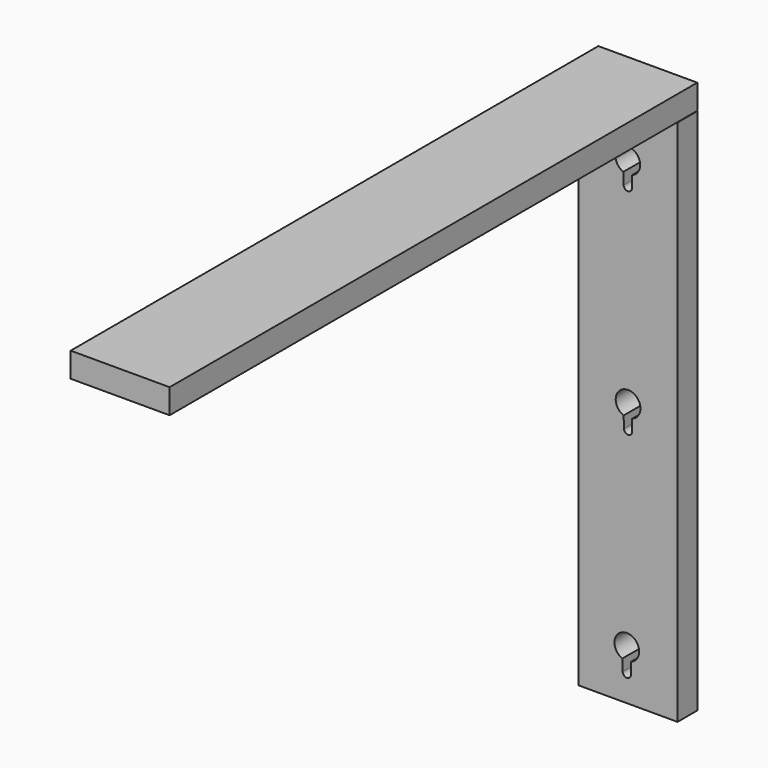
from build123d import *

# Parameters (mm, degrees)
F0_W     = 76.2
F0_H     = 406.4
F1_DEPTH = 19.05
F2_W     = 76.2
F2_H     = 19.05
F3_DEPTH = 508


with BuildPart() as f1:
    # F0 (on Front) → F1 (new body)
    with BuildSketch(Plane.XZ):
        Rectangle(F0_W, F0_H)
        with BuildLine():
            ThreePointArc((-4.385022, -173.993463), (-6.370754, -157.251075), (8.550541, -165.1))
            ThreePointArc((8.550541, -165.1), (6.802816, -170.599056), (2.201015, -174.080089))
            Line((2.201015, -174.080089), (2.201015, -182.821528))
            ThreePointArc((2.201015, -182.821528), (2.201419, -182.850763), (2.201554, -182.88))
            ThreePointArc((2.201554, -182.88), (-0.868396, -186.053262), (-4.141495, -183.089986))
            ThreePointArc((-4.141495, -183.089986), (-4.147309, -182.964969), (-4.148192, -182.83982))
            Line((-4.148192, -182.83982), (-4.385022, -173.993463))
        make_face(mode=Mode.SUBTRACT)
        with BuildLine():
            ThreePointArc((-3.410564, -8.893463), (-5.396295, 7.848925), (9.525, 0))
            ThreePointArc((9.525, 0), (7.777275, -5.499056), (3.175474, -8.980089))
            Line((3.175474, -8.980089), (3.175474, -17.721528))
            ThreePointArc((3.175474, -17.721528), (3.175878, -17.750763), (3.176012, -17.78))
            ThreePointArc((3.176012, -17.78), (0.106063, -20.953262), (-3.167036, -17.989986))
            ThreePointArc((-3.167036, -17.989986), (-3.172851, -17.864969), (-3.173734, -17.73982))
            Line((-3.173734, -17.73982), (-3.410564, -8.893463))
        make_face(mode=Mode.SUBTRACT)
        with BuildLine():
            ThreePointArc((-3.62781, 156.206537), (-5.613541, 172.948925), (9.307754, 165.1))
            ThreePointArc((9.307754, 165.1), (7.560029, 159.600944), (2.958228, 156.119911))
            Line((2.958228, 156.119911), (2.958228, 147.378472))
            ThreePointArc((2.958228, 147.378472), (2.958632, 147.349237), (2.958766, 147.32))
            ThreePointArc((2.958766, 147.32), (-0.111183, 144.146738), (-3.384282, 147.110014))
            ThreePointArc((-3.384282, 147.110014), (-3.390097, 147.235031), (-3.39098, 147.36018))
            Line((-3.39098, 147.36018), (-3.62781, 156.206537))
        make_face(mode=Mode.SUBTRACT)
    extrude(amount=F1_DEPTH)


with BuildPart() as f3:
    # F2 (on Front) → F3 (new body)
    with BuildSketch(Plane.XZ):
        with Locations((-0.045453, 212.974667)):
            Rectangle(F2_W, F2_H)
    extrude(amount=F3_DEPTH)


solid = Compound([f1.part, f3.part])
